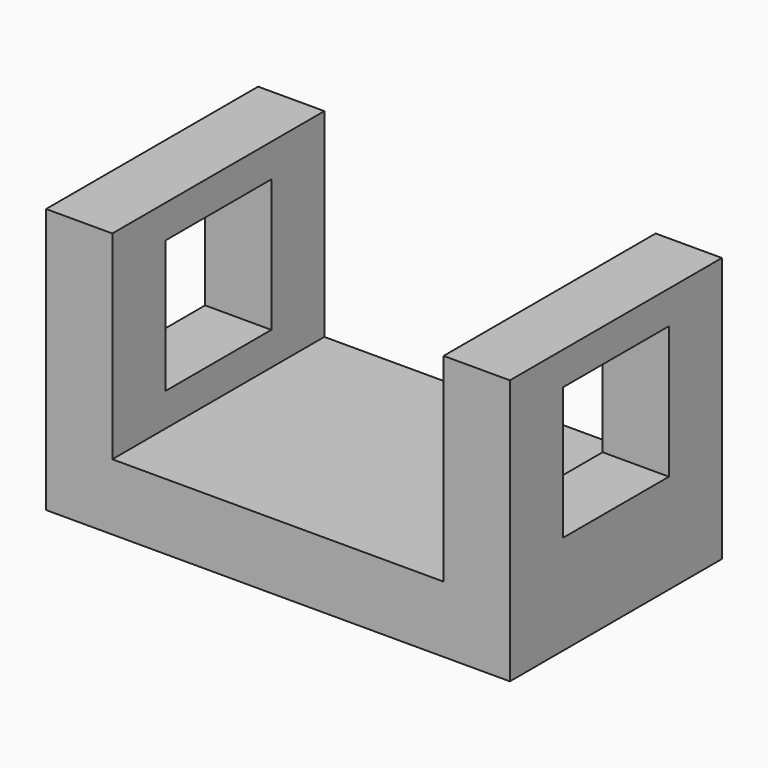
from build123d import *

# Parameters (mm, degrees)
F1_DEPTH = 50.8
F2_W     = 25.4
F2_H     = 25.4
F3_DEPTH = 88.901


with BuildPart() as f1:
    # F0 (on Front) → F1 (new body)
    with BuildSketch(Plane.XZ):
        Polygon((-44.776728, 45.238212), (-57.476728, 45.238212), (-57.476728, -5.561788), (31.423272, -5.561788), (31.423272, 45.238212), (18.723272, 45.238212), (18.723272, 7.138212), (-44.776728, 7.138212), align=None)
    extrude(amount=F1_DEPTH)

    # F2 (on face) → F3 (cut, through all)
    with BuildSketch(Plane.YZ.offset(31.423272)):
        with Locations((-25.4, 26.188212)):
            Rectangle(F2_W, F2_H)
    extrude(amount=-F3_DEPTH, mode=Mode.SUBTRACT)


solid = f1.part
